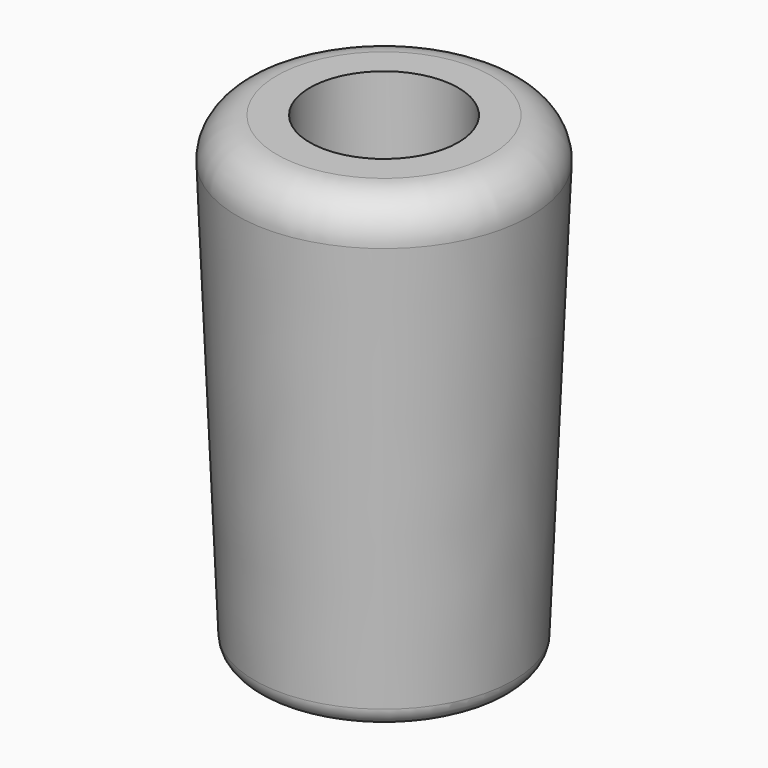
from build123d import *

# Parameters (mm, degrees)
SKETCH_R        = 6.5
SKETCH001_R     = 7.5
SKETCH002_R     = 2.25
POCKET_DEPTH    = 24.001
SKETCH003_R     = 3.75
POCKET001_DEPTH = 8
FILLET_R        = 2
FILLET001_R     = 1
SKETCH004_R     = 2.5
SKETCH004_R_2   = 2.125
PAD_DEPTH       = 6


with BuildPart() as body:
    # Sketch (on XY_Plane of Origin) → AdditiveLoft section 0
    with BuildSketch(Plane.XY):
        Circle(SKETCH_R)
    # Sketch001 (on Sketch) → AdditiveLoft section 1
    with BuildSketch(Plane.XY.offset(24)):
        Circle(SKETCH001_R)
    loft()

    # Sketch002 → Pocket (cut, through all)
    with BuildSketch(Plane.XY.offset(24)):
        Circle(SKETCH002_R)
    extrude(amount=-POCKET_DEPTH, mode=Mode.SUBTRACT)

    # Sketch003 → Pocket001 (cut)
    with BuildSketch(Plane.XY.offset(24)):
        Circle(SKETCH003_R)
    extrude(amount=-POCKET001_DEPTH, mode=Mode.SUBTRACT)

    # Fillet
    fillet_edges = [body.edges().sort_by_distance(p)[0] for p in [
        (-7.5, 0, 24),
    ]]
    fillet(fillet_edges, radius=FILLET_R)

    # Fillet001
    fillet001_edges = [body.edges().sort_by_distance(p)[0] for p in [
        (-6.5, 0, 0),
    ]]
    fillet(fillet001_edges, radius=FILLET001_R)


with BuildPart() as body001:
    # Sketch004 (on XY_Plane001 of Origin002) → Pad (new body)
    with BuildSketch(Plane.XY):
        Circle(SKETCH004_R)
        Circle(SKETCH004_R_2, mode=Mode.SUBTRACT)
    extrude(amount=PAD_DEPTH)


solid = Compound([body.part, body001.part])
